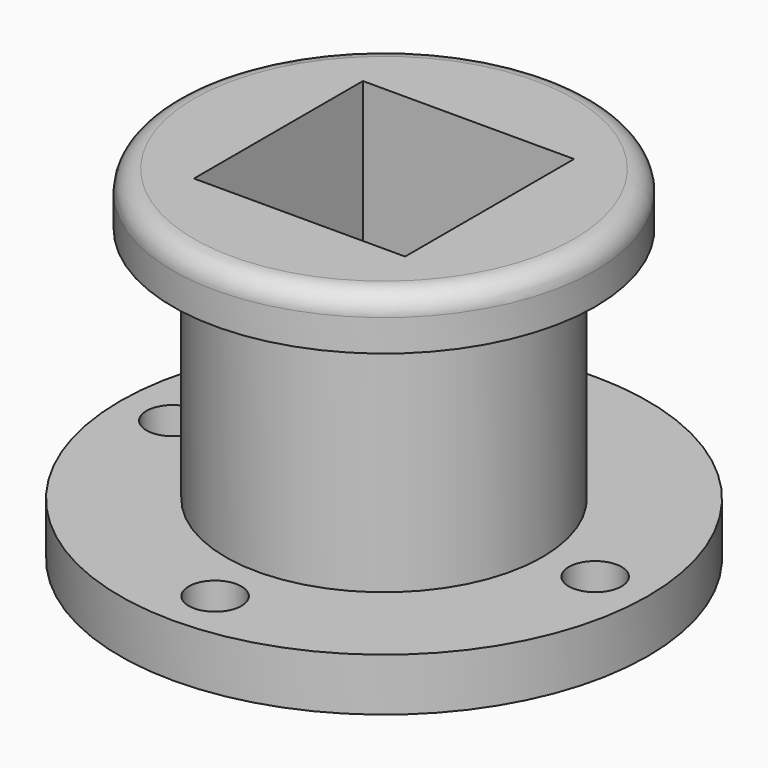
from build123d import *

# Parameters (mm, degrees)
F0_R     = 63.5
F1_DEPTH = 12.7
F2_R     = 6.35
F3_DEPTH = 12.7
F2_R_2   = 38.1
F4_DEPTH = 57.15
F5_R     = 50.8
F6_DEPTH = 12.7
F7_R     = 5.08
F8_W     = 50.8
F8_H     = 50.8
F9_DEPTH = 85.09


with BuildPart() as f1:
    # F0 (on Top) → F1 (new body)
    with BuildSketch(Plane.XY):
        Circle(F0_R)
    extrude(amount=F1_DEPTH)

    # F2 (on face) → F3 (cut)
    with BuildSketch(Plane.XY.offset(12.7)):
        with Locations((0, 50.8)):
            Circle(F2_R)
        with Locations((50.8, 0)):
            Circle(F2_R)
        with Locations((0, -50.8)):
            Circle(F2_R)
        with Locations((-50.8, 0)):
            Circle(F2_R)
    extrude(amount=-F3_DEPTH, mode=Mode.SUBTRACT)

    # F2 (on face) → F4 (join)
    with BuildSketch(Plane.XY.offset(12.7)):
        Circle(F2_R_2)
    extrude(amount=F4_DEPTH)

    # F5 (on face) → F6 (join)
    with BuildSketch(Plane.XY.offset(69.85)):
        Circle(F5_R)
    extrude(amount=F6_DEPTH)

    # F7
    f7_edges = [f1.edges().sort_by_distance(p)[0] for p in [
        (-50.8, 0, 82.55),
    ]]
    fillet(f7_edges, radius=F7_R)

    # F8 (on face) → F9 (cut)
    with BuildSketch(Plane.XY.offset(82.55)):
        Rectangle(F8_W, F8_H)
    extrude(amount=-F9_DEPTH, mode=Mode.SUBTRACT)


solid = f1.part
